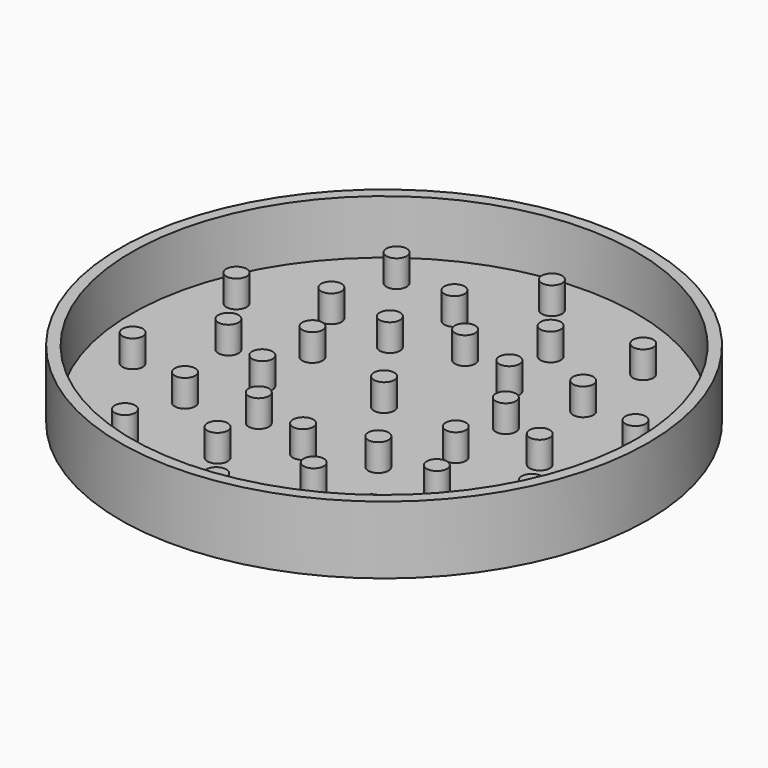
from build123d import *

# Parameters (mm, degrees)
F0_R     = 2971.8
F1_DEPTH = 762
F2_R     = 2844.8
F3_DEPTH = 609.6
F5_R     = 114.3
F6_DEPTH = 304.8


with BuildPart() as f1:
    # F0 (on Top) → F1 (new body)
    with BuildSketch(Plane.XY):
        Circle(F0_R)
    extrude(amount=F1_DEPTH)

    # F2 (on face) → F3 (cut)
    with BuildSketch(Plane.XY.offset(762)):
        Circle(F2_R)
    extrude(amount=-F3_DEPTH, mode=Mode.SUBTRACT)

    # F5 (on face) → F6 (join)
    with BuildSketch(Plane.XY.offset(152.4)):
        with Locations((0, 2362.2)):
            Circle(F5_R)
        with Locations((-1752.6, 0)):
            Circle(F5_R)
        with Locations((-1388.466323, 1911.059944)):
            Circle(F5_R)
        with Locations((-2246.585703, 729.959944)):
            Circle(F5_R)
        with Locations((-2246.585703, -729.959944)):
            Circle(F5_R)
        with Locations((-1388.466323, -1911.059944)):
            Circle(F5_R)
        with Locations((0, -2362.2)):
            Circle(F5_R)
        with Locations((1388.466323, -1911.059944)):
            Circle(F5_R)
        with Locations((2246.585703, -729.959944)):
            Circle(F5_R)
        with Locations((2246.585703, 729.959944)):
            Circle(F5_R)
        with Locations((1388.466323, 1911.059944)):
            Circle(F5_R)
        with Locations((-1417.883184, -1030.152433)):
            Circle(F5_R)
        with Locations((-541.583184, -1666.82165)):
            Circle(F5_R)
        with Locations((541.583184, -1666.82165)):
            Circle(F5_R)
        with Locations((1417.883184, -1030.152433)):
            Circle(F5_R)
        with Locations((1752.6, 0)):
            Circle(F5_R)
        with Locations((1417.883184, 1030.152433)):
            Circle(F5_R)
        with Locations((541.583184, 1666.82165)):
            Circle(F5_R)
        with Locations((-541.583184, 1666.82165)):
            Circle(F5_R)
        with Locations((-1417.883184, 1030.152433)):
            Circle(F5_R)
        Circle(F5_R)
        with Locations((-673.716898, 923.338801)):
            Circle(F5_R)
        with Locations((-1087.77335, 350.995925)):
            Circle(F5_R)
        with Locations((-1086.337354, -355.415465)):
            Circle(F5_R)
        with Locations((-669.957413, -926.070227)):
            Circle(F5_R)
        with Locations((2.323489, -1142.997638)):
            Circle(F5_R)
        with Locations((673.716898, -923.338801)):
            Circle(F5_R)
        with Locations((1087.77335, -350.995925)):
            Circle(F5_R)
        with Locations((1086.337354, 355.415465)):
            Circle(F5_R)
        with Locations((669.957413, 926.070227)):
            Circle(F5_R)
        with Locations((-2.323489, 1142.997638)):
            Circle(F5_R)
    extrude(amount=F6_DEPTH)


solid = f1.part
